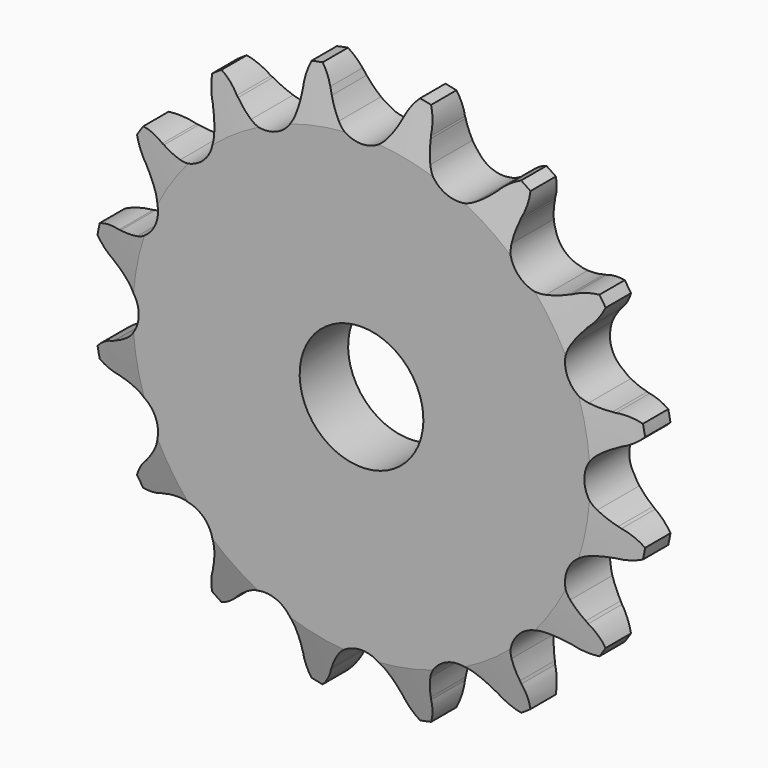
from build123d import *

# Parameters (mm, degrees)
F0_W     = 15.0114
F0_H     = 17.4625
F0_W_2   = 7.2136
F0_H_2   = 10.287
F3_R     = 1.6002
F4_SIZE  = 0.7874
F5_SIZE2 = 6.35
F5_SIZE  = 1.5748
F6_DEPTH = 7.7776333333


with BuildPart() as f2:
    # F0 (on Right) → F2 (revolve)
    with BuildSketch(Plane.YZ):
        with Locations((6.9426666667, 16.66875)):
            Rectangle(F0_W, F0_H)
        with Locations((-4.1698333333, 16.66875)):
            Rectangle(F0_W_2, F0_H)
        with Locations((-4.1698333333, 30.5435)):
            Rectangle(F0_W_2, F0_H_2)
    revolve(axis=Axis((0, 3.3358666667, 0), (0, 1, 0)))

    # F3
    f3_edges = [f2.edges().sort_by_distance(p)[0] for p in [
        (0, -0.563033, -25.4),
    ]]
    fillet(f3_edges, radius=F3_R)

    # F4
    f4_edges = [f2.edges().sort_by_distance(p)[0] for p in [
        (0, 14.448367, -25.4),
    ]]
    chamfer(f4_edges, length=F4_SIZE)

    # F5
    f5_edges = [f2.edges().sort_by_distance(p)[0] for p in [
        (0, -7.776633, -35.687),
        (0, -0.563033, -35.687),
    ]]
    f5_side = f2.faces().sort_by_distance((0, -4.169833, -35.687))[0]
    chamfer(f5_edges, length=F5_SIZE, length2=F5_SIZE2, reference=f5_side)

    # F1 (on Front) → F6 (intersect, through all)
    with BuildSketch(Plane.XZ):
        with BuildLine():
            Line((4.4568878106, 32.3001493474), (0, 22.4062252863))
            Line((0, 22.4062252863), (-4.4568878106, 32.3001493474))
            Line((-4.4568878106, 32.3001493474), (-4.5892018649, 32.523277227))
            ThreePointArc((-4.5892018649, 32.523277227), (-4.6960631924, 32.8134396776), (-4.8164154363, 33.0982710811))
            ThreePointArc((-4.8164154363, 33.0982710811), (-5.7824590169, 34.6345412761), (-7.1308367855, 35.8491373836))
            ThreePointArc((-7.1308367855, 35.8491373836), (-7.9833613384, 33.9689686638), (-8.2124605478, 31.9172995675))
            Line((-8.2124605478, 31.9172995675), (-8.2431045912, 31.5470240041))
            ThreePointArc((-8.2431045912, 31.5470240041), (-8.3658592885, 30.2423390761), (-8.6522824488, 28.963576686))
            ThreePointArc((-8.6522824488, 28.963576686), (-10.9400391594, 26.4115909116), (-14.3622538898, 26.5984290744))
            ThreePointArc((-14.3622538898, 26.5984290744), (-15.4690072063, 27.300118873), (-16.4783594451, 28.135869754))
            Line((-16.4783594451, 28.135869754), (-16.6859890345, 28.2913786388))
            ThreePointArc((-16.6859890345, 28.2913786388), (-18.3253127052, 29.6364752235), (-20.3069050971, 30.3914311902))
            ThreePointArc((-20.3069050971, 30.3914311902), (-20.3750256633, 28.3281347702), (-19.801545962, 26.3449672128))
            Line((-19.801545962, 26.3449672128), (-19.688159043, 25.9911502307))
            ThreePointArc((-19.688159043, 25.9911502307), (-19.3022882889, 24.7388023405), (-19.0775476037, 23.4477705432))
            ThreePointArc((-19.0775476037, 23.4477705432), (-20.2145565285, 20.2145565285), (-23.4477705432, 19.0775476037))
            ThreePointArc((-23.4477705432, 19.0775476037), (-24.7388023405, 19.3022882889), (-25.9911502307, 19.688159043))
            Line((-25.9911502307, 19.688159043), (-26.2424856325, 19.7523741147))
            ThreePointArc((-26.2424856325, 19.7523741147), (-28.2717693969, 20.3677393095), (-30.3914311902, 20.3069050971))
            ThreePointArc((-30.3914311902, 20.3069050971), (-29.6647770311, 18.374599153), (-28.3760255049, 16.7618524177))
            Line((-28.3760255049, 16.7618524177), (-28.135869754, 16.4783594451))
            ThreePointArc((-28.135869754, 16.4783594451), (-27.300118873, 15.4690072063), (-26.5984290744, 14.3622538898))
            ThreePointArc((-26.5984290744, 14.3622538898), (-26.4115909116, 10.9400391594), (-28.963576686, 8.6522824488))
            ThreePointArc((-28.963576686, 8.6522824488), (-30.2423390761, 8.3658592885), (-31.5470240041, 8.2431045912))
            Line((-31.5470240041, 8.2431045912), (-31.8038016817, 8.2062496875))
            ThreePointArc((-31.8038016817, 8.2062496875), (-33.9141054822, 7.9981997198), (-35.8491373836, 7.1308367855))
            ThreePointArc((-35.8491373836, 7.1308367855), (-34.4383350078, 5.623697381), (-32.630512394, 4.6268975386))
            Line((-32.630512394, 4.6268975386), (-32.3001493474, 4.4568878106))
            ThreePointArc((-32.3001493474, 4.4568878106), (-31.1417538349, 3.8441959519), (-30.0699408338, 3.0902142758))
            ThreePointArc((-30.0699408338, 3.0902142758), (-28.5877, 0), (-30.0699408338, -3.0902142758))
            ThreePointArc((-30.0699408338, -3.0902142758), (-31.1417538349, -3.8441959519), (-32.3001493474, -4.4568878106))
            Line((-32.3001493474, -4.4568878106), (-32.523277227, -4.5892018649))
            ThreePointArc((-32.523277227, -4.5892018649), (-34.3933264399, -5.5889932735), (-35.8491373836, -7.1308367855))
            ThreePointArc((-35.8491373836, -7.1308367855), (-33.9689686638, -7.9833613384), (-31.9172995675, -8.2124605478))
            Line((-31.9172995675, -8.2124605478), (-31.5470240041, -8.2431045912))
            ThreePointArc((-31.5470240041, -8.2431045912), (-30.2423390761, -8.3658592885), (-28.963576686, -8.6522824488))
            ThreePointArc((-28.963576686, -8.6522824488), (-26.4115909116, -10.9400391594), (-26.5984290744, -14.3622538898))
            ThreePointArc((-26.5984290744, -14.3622538898), (-27.300118873, -15.4690072063), (-28.135869754, -16.4783594451))
            Line((-28.135869754, -16.4783594451), (-28.2913786388, -16.6859890345))
            ThreePointArc((-28.2913786388, -16.6859890345), (-29.6364752235, -18.3253127052), (-30.3914311902, -20.3069050971))
            ThreePointArc((-30.3914311902, -20.3069050971), (-28.3281347702, -20.3750256633), (-26.3449672128, -19.801545962))
            Line((-26.3449672128, -19.801545962), (-25.9911502307, -19.688159043))
            ThreePointArc((-25.9911502307, -19.688159043), (-24.7388023405, -19.3022882889), (-23.4477705432, -19.0775476037))
            ThreePointArc((-23.4477705432, -19.0775476037), (-20.2145565285, -20.2145565285), (-19.0775476037, -23.4477705432))
            ThreePointArc((-19.0775476037, -23.4477705432), (-19.3022882889, -24.7388023405), (-19.688159043, -25.9911502307))
            Line((-19.688159043, -25.9911502307), (-19.7523741147, -26.2424856325))
            ThreePointArc((-19.7523741147, -26.2424856325), (-20.3677393095, -28.2717693969), (-20.3069050971, -30.3914311902))
            ThreePointArc((-20.3069050971, -30.3914311902), (-18.374599153, -29.6647770311), (-16.7618524177, -28.3760255049))
            Line((-16.7618524177, -28.3760255049), (-16.4783594451, -28.135869754))
            ThreePointArc((-16.4783594451, -28.135869754), (-15.4690072063, -27.300118873), (-14.3622538898, -26.5984290744))
            ThreePointArc((-14.3622538898, -26.5984290744), (-10.9400391594, -26.4115909116), (-8.6522824488, -28.963576686))
            ThreePointArc((-8.6522824488, -28.963576686), (-8.3658592885, -30.2423390761), (-8.2431045912, -31.5470240041))
            Line((-8.2431045912, -31.5470240041), (-8.2062496875, -31.8038016817))
            ThreePointArc((-8.2062496875, -31.8038016817), (-7.9981997198, -33.9141054822), (-7.1308367855, -35.8491373836))
            ThreePointArc((-7.1308367855, -35.8491373836), (-5.623697381, -34.4383350078), (-4.6268975386, -32.630512394))
            Line((-4.6268975386, -32.630512394), (-4.4568878106, -32.3001493474))
            ThreePointArc((-4.4568878106, -32.3001493474), (-3.8441959519, -31.1417538349), (-3.0902142758, -30.0699408338))
            ThreePointArc((-3.0902142758, -30.0699408338), (0, -28.5877), (3.0902142758, -30.0699408338))
            ThreePointArc((3.0902142758, -30.0699408338), (3.8441959519, -31.1417538349), (4.4568878106, -32.3001493474))
            Line((4.4568878106, -32.3001493474), (4.5892018649, -32.523277227))
            ThreePointArc((4.5892018649, -32.523277227), (5.5889932735, -34.3933264399), (7.1308367855, -35.8491373836))
            ThreePointArc((7.1308367855, -35.8491373836), (7.9833613384, -33.9689686638), (8.2124605478, -31.9172995675))
            Line((8.2124605478, -31.9172995675), (8.2431045912, -31.5470240041))
            ThreePointArc((8.2431045912, -31.5470240041), (8.3658592885, -30.2423390761), (8.6522824488, -28.963576686))
            ThreePointArc((8.6522824488, -28.963576686), (10.9400391594, -26.4115909116), (14.3622538898, -26.5984290744))
            ThreePointArc((14.3622538898, -26.5984290744), (15.4690072063, -27.300118873), (16.4783594451, -28.135869754))
            Line((16.4783594451, -28.135869754), (16.6859890345, -28.2913786388))
            ThreePointArc((16.6859890345, -28.2913786388), (18.3253127052, -29.6364752235), (20.3069050971, -30.3914311902))
            ThreePointArc((20.3069050971, -30.3914311902), (20.3750256633, -28.3281347702), (19.801545962, -26.3449672128))
            Line((19.801545962, -26.3449672128), (19.688159043, -25.9911502307))
            ThreePointArc((19.688159043, -25.9911502307), (19.3022882889, -24.7388023405), (19.0775476037, -23.4477705432))
            ThreePointArc((19.0775476037, -23.4477705432), (20.2145565285, -20.2145565285), (23.4477705432, -19.0775476037))
            ThreePointArc((23.4477705432, -19.0775476037), (24.7388023405, -19.3022882889), (25.9911502307, -19.688159043))
            Line((25.9911502307, -19.688159043), (26.2424856325, -19.7523741147))
            ThreePointArc((26.2424856325, -19.7523741147), (28.2717693969, -20.3677393095), (30.3914311902, -20.3069050971))
            ThreePointArc((30.3914311902, -20.3069050971), (29.6647770311, -18.374599153), (28.3760255049, -16.7618524177))
            Line((28.3760255049, -16.7618524177), (28.135869754, -16.4783594451))
            ThreePointArc((28.135869754, -16.4783594451), (27.300118873, -15.4690072063), (26.5984290744, -14.3622538898))
            ThreePointArc((26.5984290744, -14.3622538898), (26.4115909116, -10.9400391594), (28.963576686, -8.6522824488))
            ThreePointArc((28.963576686, -8.6522824488), (30.2423390761, -8.3658592885), (31.5470240041, -8.2431045912))
            Line((31.5470240041, -8.2431045912), (31.8038016817, -8.2062496875))
            ThreePointArc((31.8038016817, -8.2062496875), (33.9141054822, -7.9981997198), (35.8491373836, -7.1308367855))
            ThreePointArc((35.8491373836, -7.1308367855), (34.4383350078, -5.623697381), (32.630512394, -4.6268975386))
            Line((32.630512394, -4.6268975386), (32.3001493474, -4.4568878106))
            ThreePointArc((32.3001493474, -4.4568878106), (31.1417538349, -3.8441959519), (30.0699408338, -3.0902142758))
            ThreePointArc((30.0699408338, -3.0902142758), (28.5877, 0), (30.0699408338, 3.0902142758))
            ThreePointArc((30.0699408338, 3.0902142758), (31.1417538349, 3.8441959519), (32.3001493474, 4.4568878106))
            Line((32.3001493474, 4.4568878106), (32.523277227, 4.5892018649))
            ThreePointArc((32.523277227, 4.5892018649), (34.3933264399, 5.5889932735), (35.8491373836, 7.1308367855))
            ThreePointArc((35.8491373836, 7.1308367855), (33.9689686638, 7.9833613384), (31.9172995675, 8.2124605478))
            Line((31.9172995675, 8.2124605478), (31.5470240041, 8.2431045912))
            ThreePointArc((31.5470240041, 8.2431045912), (30.2423390761, 8.3658592885), (28.963576686, 8.6522824488))
            ThreePointArc((28.963576686, 8.6522824488), (26.4115909116, 10.9400391594), (26.5984290744, 14.3622538898))
            ThreePointArc((26.5984290744, 14.3622538898), (27.300118873, 15.4690072063), (28.135869754, 16.4783594451))
            Line((28.135869754, 16.4783594451), (28.2913786388, 16.6859890345))
            ThreePointArc((28.2913786388, 16.6859890345), (29.6364752235, 18.3253127052), (30.3914311902, 20.3069050971))
            ThreePointArc((30.3914311902, 20.3069050971), (28.3281347702, 20.3750256633), (26.3449672128, 19.801545962))
            Line((26.3449672128, 19.801545962), (25.9911502307, 19.688159043))
            ThreePointArc((25.9911502307, 19.688159043), (24.7388023405, 19.3022882889), (23.4477705432, 19.0775476037))
            ThreePointArc((23.4477705432, 19.0775476037), (20.2145565285, 20.2145565285), (19.0775476037, 23.4477705432))
            ThreePointArc((19.0775476037, 23.4477705432), (19.3022882889, 24.7388023405), (19.688159043, 25.9911502307))
            Line((19.688159043, 25.9911502307), (19.7523741147, 26.2424856325))
            ThreePointArc((19.7523741147, 26.2424856325), (20.3677393095, 28.2717693969), (20.3069050971, 30.3914311902))
            ThreePointArc((20.3069050971, 30.3914311902), (18.374599153, 29.6647770311), (16.7618524177, 28.3760255049))
            Line((16.7618524177, 28.3760255049), (16.4783594451, 28.135869754))
            ThreePointArc((16.4783594451, 28.135869754), (15.4690072063, 27.300118873), (14.3622538898, 26.5984290744))
            ThreePointArc((14.3622538898, 26.5984290744), (10.9400391594, 26.4115909116), (8.6522824488, 28.963576686))
            ThreePointArc((8.6522824488, 28.963576686), (8.3658592885, 30.2423390761), (8.2431045912, 31.5470240041))
            Line((8.2431045912, 31.5470240041), (8.2062496875, 31.8038016817))
            ThreePointArc((8.2062496875, 31.8038016817), (7.9981997198, 33.9141054822), (7.1308367855, 35.8491373836))
            ThreePointArc((7.1308367855, 35.8491373836), (5.7824589975, 34.6345412531), (4.8164154116, 33.0982710263))
            ThreePointArc((4.8164154116, 33.0982710263), (4.7171778226, 32.8662062885), (4.6268975386, 32.630512394))
            Line((4.6268975386, 32.630512394), (4.4568878106, 32.3001493474))
        make_face()
        with BuildLine():
            Line((-4.4568878106, 32.3001493474), (0, 22.4062252863))
            Line((0, 22.4062252863), (4.4568878106, 32.3001493474))
            ThreePointArc((4.4568878106, 32.3001493474), (3.8441959519, 31.1417538349), (3.0902142758, 30.0699408338))
            ThreePointArc((3.0902142758, 30.0699408338), (0, 28.5877), (-3.0902142758, 30.0699408338))
            ThreePointArc((-3.0902142758, 30.0699408338), (-3.8441959519, 31.1417538349), (-4.4568878106, 32.3001493474))
        make_face()
        with BuildLine():
            Line((-4.5892018649, 32.523277227), (-4.4568878106, 32.3001493474))
            Line((-4.4568878106, 32.3001493474), (-4.8164154363, 33.0982710811))
            ThreePointArc((-4.8164154363, 33.0982710811), (-4.6960631924, 32.8134396776), (-4.5892018649, 32.523277227))
        make_face()
        with BuildLine():
            Line((4.8164154116, 33.0982710263), (4.4568878106, 32.3001493474))
            Line((4.4568878106, 32.3001493474), (4.6268975386, 32.630512394))
            ThreePointArc((4.6268975386, 32.630512394), (4.7171778226, 32.8662062885), (4.8164154116, 33.0982710263))
        make_face()
    extrude(amount=F6_DEPTH, mode=Mode.INTERSECT)


solid = f2.part
